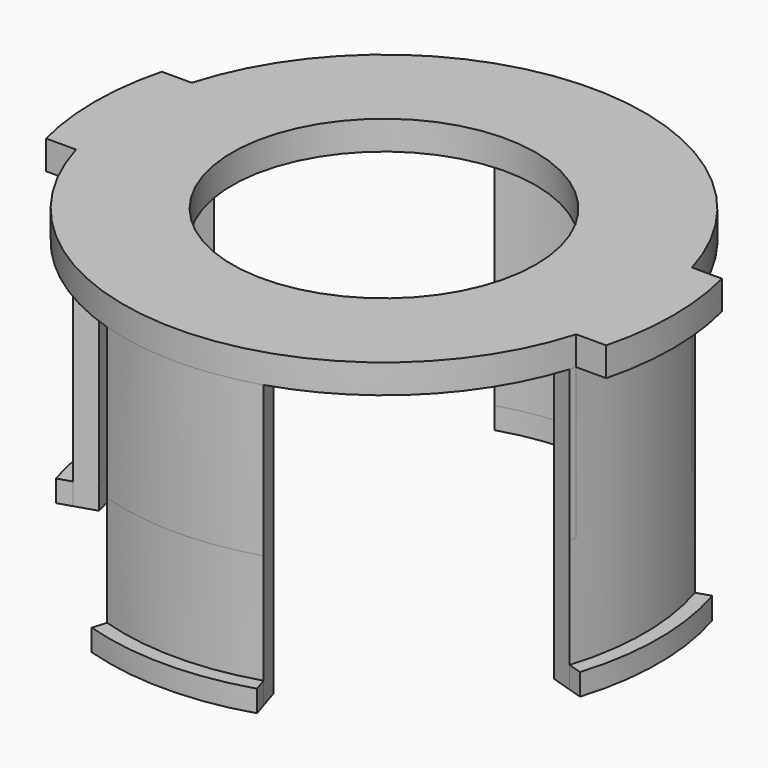
from build123d import *

# Parameters (mm, degrees)
F0_R      = 18
F0_R_2    = 16.5
F1_DEPTH  = 20
F3_DEPTH  = 18
F5_DEPTH  = 1.5
F7_R      = 20
F7_R_2    = 10.5
F8_DEPTH  = 2
F10_DEPTH = 12.4


with BuildPart() as f1:
    # F0 (on Top) → F1 (new body)
    with BuildSketch(Plane.XY):
        Circle(F0_R)
        Circle(F0_R_2, mode=Mode.SUBTRACT)
    extrude(amount=-F1_DEPTH)

    # F2 (on face) → F3 (cut)
    with BuildSketch(Plane(origin=(0, 0, -20), x_dir=(1, 0, 0), z_dir=(0, 0, -1))):
        with BuildLine():
            ThreePointArc((-5.4127043911, 17.1669051135), (-12.7279220614, 12.7279220614), (-17.1669051135, 5.4127043911))
            Line((-17.1669051135, 5.4127043911), (-15.7363296873, 4.9616456918))
            ThreePointArc((-15.7363296873, 4.9616456918), (-11.6672618896, 11.6672618896), (-4.9616456918, 15.7363296873))
            Line((-4.9616456918, 15.7363296873), (-5.4127043911, 17.1669051135))
        make_face()
        with BuildLine():
            Line((-15.7363296873, -4.9616456918), (-17.1669051135, -5.4127043911))
            ThreePointArc((-17.1669051135, -5.4127043911), (-12.7279220614, -12.7279220614), (-5.4127043911, -17.1669051135))
            Line((-5.4127043911, -17.1669051135), (-4.9616456918, -15.7363296873))
            ThreePointArc((-4.9616456918, -15.7363296873), (-11.6672618896, -11.6672618896), (-15.7363296873, -4.9616456918))
        make_face()
        with BuildLine():
            ThreePointArc((15.7363296873, -4.9616456918), (11.6672618896, -11.6672618896), (4.9616456918, -15.7363296873))
            Line((4.9616456918, -15.7363296873), (5.4127043911, -17.1669051135))
            ThreePointArc((5.4127043911, -17.1669051135), (12.7279220614, -12.7279220614), (17.1669051135, -5.4127043911))
            Line((17.1669051135, -5.4127043911), (15.7363296873, -4.9616456918))
        make_face()
        with BuildLine():
            Line((5.4127043911, 17.1669051135), (4.9616456918, 15.7363296873))
            ThreePointArc((4.9616456918, 15.7363296873), (11.6672618896, 11.6672618896), (15.7363296873, 4.9616456918))
            Line((15.7363296873, 4.9616456918), (17.1669051135, 5.4127043911))
            ThreePointArc((17.1669051135, 5.4127043911), (12.7279220614, 12.7279220614), (5.4127043911, 17.1669051135))
        make_face()
    extrude(amount=-F3_DEPTH, mode=Mode.SUBTRACT)

    # F4 (on face) → F5 (join)
    with BuildSketch(Plane(origin=(0, 0, -20), x_dir=(1, 0, 0), z_dir=(0, 0, -1))):
        with BuildLine():
            Line((-15.7363296873, 4.9616456918), (-17.1669051135, 5.4127043911))
            ThreePointArc((-17.1669051135, 5.4127043911), (-18, 0), (-17.1669051135, -5.4127043911))
            Line((-17.1669051135, -5.4127043911), (-15.7363296873, -4.9616456918))
            ThreePointArc((-15.7363296873, -4.9616456918), (-16.5, 0), (-15.7363296873, 4.9616456918))
        make_face()
        with BuildLine():
            ThreePointArc((-17.1669051135, -5.4127043911), (-18, 0), (-17.1669051135, 5.4127043911))
            Line((-17.1669051135, 5.4127043911), (-18.1206220642, 5.7134101906))
            ThreePointArc((-18.1206220642, 5.7134101906), (-19, 0), (-18.1206220642, -5.7134101906))
            Line((-18.1206220642, -5.7134101906), (-17.1669051135, -5.4127043911))
        make_face()
        with BuildLine():
            ThreePointArc((4.9616456918, -15.7363296873), (0, -16.5), (-4.9616456918, -15.7363296873))
            Line((-4.9616456918, -15.7363296873), (-5.4127043911, -17.1669051135))
            ThreePointArc((-5.4127043911, -17.1669051135), (0, -18), (5.4127043911, -17.1669051135))
            Line((5.4127043911, -17.1669051135), (4.9616456918, -15.7363296873))
        make_face()
        with BuildLine():
            ThreePointArc((5.4127043911, -17.1669051135), (0, -18), (-5.4127043911, -17.1669051135))
            Line((-5.4127043911, -17.1669051135), (-5.7134101906, -18.1206220642))
            ThreePointArc((-5.7134101906, -18.1206220642), (0, -19), (5.7134101906, -18.1206220642))
            Line((5.7134101906, -18.1206220642), (5.4127043911, -17.1669051135))
        make_face()
        with BuildLine():
            ThreePointArc((15.7363296873, 4.9616456918), (16.5, 0), (15.7363296873, -4.9616456918))
            Line((15.7363296873, -4.9616456918), (17.1669051135, -5.4127043911))
            ThreePointArc((17.1669051135, -5.4127043911), (18, 0), (17.1669051135, 5.4127043911))
            Line((17.1669051135, 5.4127043911), (15.7363296873, 4.9616456918))
        make_face()
        with BuildLine():
            ThreePointArc((17.1669051135, 5.4127043911), (18, 0), (17.1669051135, -5.4127043911))
            Line((17.1669051135, -5.4127043911), (18.1206220642, -5.7134101906))
            ThreePointArc((18.1206220642, -5.7134101906), (19, 0), (18.1206220642, 5.7134101906))
            Line((18.1206220642, 5.7134101906), (17.1669051135, 5.4127043911))
        make_face()
        with BuildLine():
            ThreePointArc((-4.9616456918, 15.7363296873), (0, 16.5), (4.9616456918, 15.7363296873))
            Line((4.9616456918, 15.7363296873), (5.4127043911, 17.1669051135))
            ThreePointArc((5.4127043911, 17.1669051135), (0, 18), (-5.4127043911, 17.1669051135))
            Line((-5.4127043911, 17.1669051135), (-4.9616456918, 15.7363296873))
        make_face()
        with BuildLine():
            ThreePointArc((-5.4127043911, 17.1669051135), (0, 18), (5.4127043911, 17.1669051135))
            Line((5.4127043911, 17.1669051135), (5.7134101906, 18.1206220642))
            ThreePointArc((5.7134101906, 18.1206220642), (0, 19), (-5.7134101906, 18.1206220642))
            Line((-5.7134101906, 18.1206220642), (-5.4127043911, 17.1669051135))
        make_face()
    extrude(amount=F5_DEPTH)

    # F7 (on face) → F8 (join)
    with BuildSketch(Plane.XY):
        Circle(F7_R)
        Circle(F7_R_2, mode=Mode.SUBTRACT)
    extrude(amount=-F8_DEPTH)

    # F9 (on face) → F10 (cut)
    with BuildSketch(Plane.XY):
        with BuildLine():
            Line((17.2916164658, 5), (19.364916731, 5))
            ThreePointArc((19.364916731, 5), (0, 20), (-19.364916731, 5))
            Line((-19.364916731, 5), (-17.2916164658, 5))
            ThreePointArc((-17.2916164658, 5), (0, 18), (17.2916164658, 5))
        make_face()
        with BuildLine():
            Line((-17.2916164658, -5), (-19.364916731, -5))
            ThreePointArc((-19.364916731, -5), (0, -20), (19.364916731, -5))
            Line((19.364916731, -5), (17.2916164658, -5))
            ThreePointArc((17.2916164658, -5), (0, -18), (-17.2916164658, -5))
        make_face()
    extrude(amount=-F10_DEPTH, mode=Mode.SUBTRACT)


solid = f1.part
